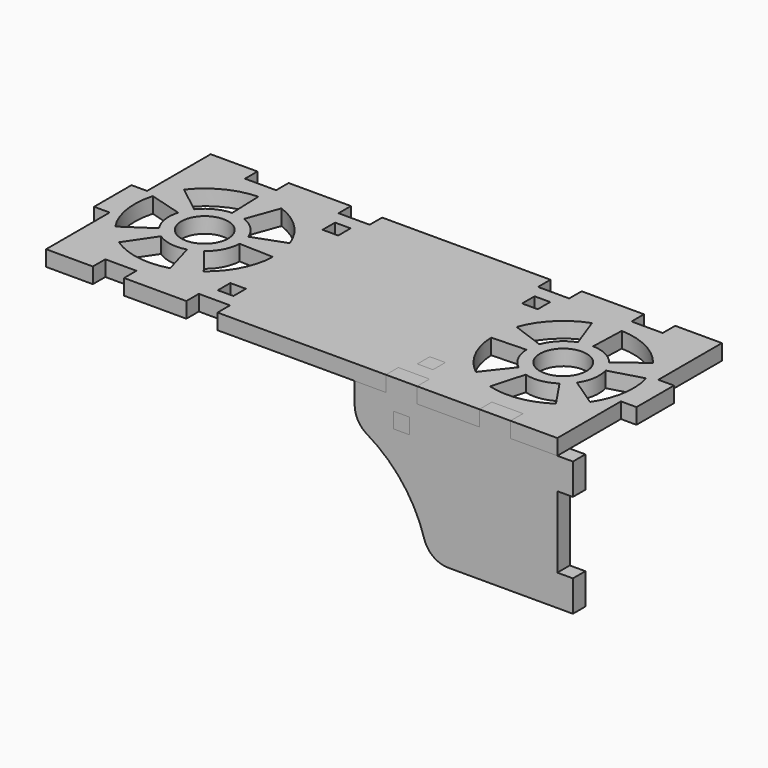
from build123d import *

# Parameters (mm, degrees)
F0_W     = 5
F0_H     = 5
F0_R     = 7.5
F0_H_2   = 15
F1_DEPTH = 5
F2_W     = 5
F2_H     = 5
F2_H_2   = 10
F3_DEPTH = 5
F5_DEPTH = 5


with BuildPart() as f1:
    # F0 (on Top) → F1 (new body)
    with BuildSketch(Plane.XY):
        Polygon((-67, 33), (-82, 33), (-82, 7.5), (-82, -7.5), (-82, -33), (-67, -33), (-67, -28), (-57, -28), (-57, -33), (-37, -33), (-37, -28), (-27, -28), (-27, -33), (27, -33), (27, -28), (37, -28), (37, -33), (57, -33), (57, -28), (67, -28), (67, -33), (82, -33), (82, -7.5), (82, 7.5), (82, 33), (67, 33), (67, 28), (57, 28), (57, 33), (37, 33), (37, 28), (27, 28), (27, 33), (-27, 33), (-27, 28), (-37, 28), (-37, 33), (-57, 33), (-57, 28), (-67, 28), align=None)
        with Locations((-32, -21)):
            Rectangle(F0_W, F0_H, mode=Mode.SUBTRACT)
        with BuildLine():
            ThreePointArc((-51.298159, -21.628388), (-61.019775, -22.222988), (-70.08184, -18.653345))
            Line((-70.08184, -18.653345), (-63.930718, -9.533932))
            ThreePointArc((-63.930718, -9.533932), (-59.298996, -11.358416), (-54.33017, -11.05451))
            Line((-54.33017, -11.05451), (-51.298159, -21.628388))
        make_face(mode=Mode.SUBTRACT)
        with BuildLine():
            ThreePointArc((-76.153345, -12.58184), (-79.722988, -3.519775), (-79.128388, 6.201841))
            Line((-79.128388, 6.201841), (-68.55451, 3.16983))
            ThreePointArc((-68.55451, 3.16983), (-68.858416, -1.798996), (-67.033932, -6.430718))
            Line((-67.033932, -6.430718), (-76.153345, -12.58184))
        make_face(mode=Mode.SUBTRACT)
        with BuildLine():
            ThreePointArc((-35.013706, -0.785239), (-37.452353, -10.214786), (-43.647617, -17.730242))
            Line((-43.647617, -17.730242), (-50.419893, -9.062124))
            ThreePointArc((-50.419893, -9.062124), (-47.253425, -5.220891), (-46.007005, -0.401344))
            Line((-46.007005, -0.401344), (-35.013706, -0.785239))
        make_face(mode=Mode.SUBTRACT)
        with Locations((32, -21)):
            Rectangle(F0_W, F0_H, mode=Mode.SUBTRACT)
        with BuildLine():
            ThreePointArc((43.647617, -17.730242), (37.452353, -10.214786), (35.013706, -0.785239))
            Line((35.013706, -0.785239), (46.007005, -0.401344))
            ThreePointArc((46.007005, -0.401344), (47.253425, -5.220891), (50.419893, -9.062124))
            Line((50.419893, -9.062124), (43.647617, -17.730242))
        make_face(mode=Mode.SUBTRACT)
        with BuildLine():
            ThreePointArc((54.33017, -11.05451), (59.298996, -11.358416), (63.930718, -9.533932))
            Line((63.930718, -9.533932), (70.08184, -18.653345))
            ThreePointArc((70.08184, -18.653345), (61.019775, -22.222988), (51.298159, -21.628388))
            Line((51.298159, -21.628388), (54.33017, -11.05451))
        make_face(mode=Mode.SUBTRACT)
        with BuildLine():
            ThreePointArc((79.128388, 6.201841), (79.722988, -3.519775), (76.153345, -12.58184))
            Line((76.153345, -12.58184), (67.033932, -6.430718))
            ThreePointArc((67.033932, -6.430718), (68.858416, -1.798996), (68.55451, 3.16983))
            Line((68.55451, 3.16983), (79.128388, 6.201841))
        make_face(mode=Mode.SUBTRACT)
        with Locations((-57.5, 0)):
            Circle(F0_R, mode=Mode.SUBTRACT)
        with BuildLine():
            ThreePointArc((-75.230242, 13.852383), (-67.714786, 20.047647), (-58.285239, 22.486294))
            Line((-58.285239, 22.486294), (-57.901344, 11.492995))
            ThreePointArc((-57.901344, 11.492995), (-62.720891, 10.246575), (-66.562124, 7.080107))
            Line((-66.562124, 7.080107), (-75.230242, 13.852383))
        make_face(mode=Mode.SUBTRACT)
        with BuildLine():
            Line((-36.356916, 7.695453), (-46.693535, 3.933232))
            ThreePointArc((-46.693535, 3.933232), (-49.368272, 8.131728), (-53.566768, 10.806465))
            Line((-53.566768, 10.806465), (-49.804547, 21.143084))
            ThreePointArc((-49.804547, 21.143084), (-41.590097, 15.909903), (-36.356916, 7.695453))
        make_face(mode=Mode.SUBTRACT)
        with Locations((-32, 21)):
            Rectangle(F0_W, F0_H, mode=Mode.SUBTRACT)
        with Locations((57.5, 0)):
            Circle(F0_R, mode=Mode.SUBTRACT)
        with BuildLine():
            ThreePointArc((53.566768, 10.806465), (49.368272, 8.131728), (46.693535, 3.933232))
            Line((46.693535, 3.933232), (36.356916, 7.695453))
            ThreePointArc((36.356916, 7.695453), (41.590097, 15.909903), (49.804547, 21.143084))
            Line((49.804547, 21.143084), (53.566768, 10.806465))
        make_face(mode=Mode.SUBTRACT)
        with BuildLine():
            ThreePointArc((58.285239, 22.486294), (67.714786, 20.047647), (75.230242, 13.852383))
            Line((75.230242, 13.852383), (66.562124, 7.080107))
            ThreePointArc((66.562124, 7.080107), (62.720891, 10.246575), (57.901344, 11.492995))
            Line((57.901344, 11.492995), (58.285239, 22.486294))
        make_face(mode=Mode.SUBTRACT)
        with Locations((32, 21)):
            Rectangle(F0_W, F0_H, mode=Mode.SUBTRACT)
        with Locations((-84.5, 0)):
            Rectangle(F0_W, F0_H_2)
        with Locations((84.5, 0)):
            Rectangle(F0_W, F0_H_2)
    extrude(amount=F1_DEPTH)


with BuildPart() as f3:
    # F2 (on face) → F3 (new body)
    with BuildSketch(Plane.XZ.offset(28)):
        with BuildLine():
            Line((37, 5), (27, 5))
            Line((27, 5), (27, 0))
            Line((27, 0), (17, 0))
            Line((17, 0), (17, -6.857385))
            ThreePointArc((17, -6.857385), (18.048271, -10.816358), (20.918367, -13.737812))
            ThreePointArc((20.918367, -13.737812), (32.325147, -23.779278), (39.290909, -37.285714))
            ThreePointArc((39.290909, -37.285714), (42.176513, -41.41427), (46.957428, -43))
            Line((46.957428, -43), (82, -43))
            Line((82, -43), (82, -33))
            Line((82, -33), (82, -10))
            Line((82, -10), (82, 0))
            Line((82, 0), (67, 0))
            Line((67, 0), (67, 5))
            Line((67, 5), (57, 5))
            Line((57, 5), (57, 0))
            Line((57, 0), (37, 0))
            Line((37, 0), (37, 5))
        make_face()
        with Locations((32, -7)):
            Rectangle(F2_W, F2_H, mode=Mode.SUBTRACT)
        with Locations((84.5, -38)):
            Rectangle(F2_W, F2_H_2)
        with Locations((84.5, -5)):
            Rectangle(F2_W, F2_H_2)
    extrude(amount=F3_DEPTH)


with BuildPart() as f5:
    # F4 (on face) → F5 (new body)
    with BuildSketch(Plane(origin=(34.5, 0, 0), x_dir=(0, -1, 0), z_dir=(-1, 0, 0))):
        with BuildLine():
            Line((23.5, 5), (18.5, 5))
            Line((18.5, 5), (18.5, 0))
            Line((18.5, 0), (13.5, 0))
            Line((13.5, 0), (13.5, -3))
            ThreePointArc((13.5, -3), (13.877536, -4.905998), (14.953132, -6.524163))
            Line((14.953132, -6.524163), (21.382194, -12.994646))
            ThreePointArc((21.382194, -12.994646), (23.040752, -14.108646), (25, -14.5))
            Line((25, -14.5), (28, -14.5))
            Line((28, -14.5), (28, -9.5))
            Line((28, -9.5), (33, -9.5))
            Line((33, -9.5), (33, -4.5))
            Line((33, -4.5), (28, -4.5))
            Line((28, -4.5), (28, 0))
            Line((28, 0), (23.5, 0))
            Line((23.5, 0), (23.5, 5))
        make_face()
    extrude(amount=F5_DEPTH)


solid = Compound([f1.part, f3.part, f5.part])
